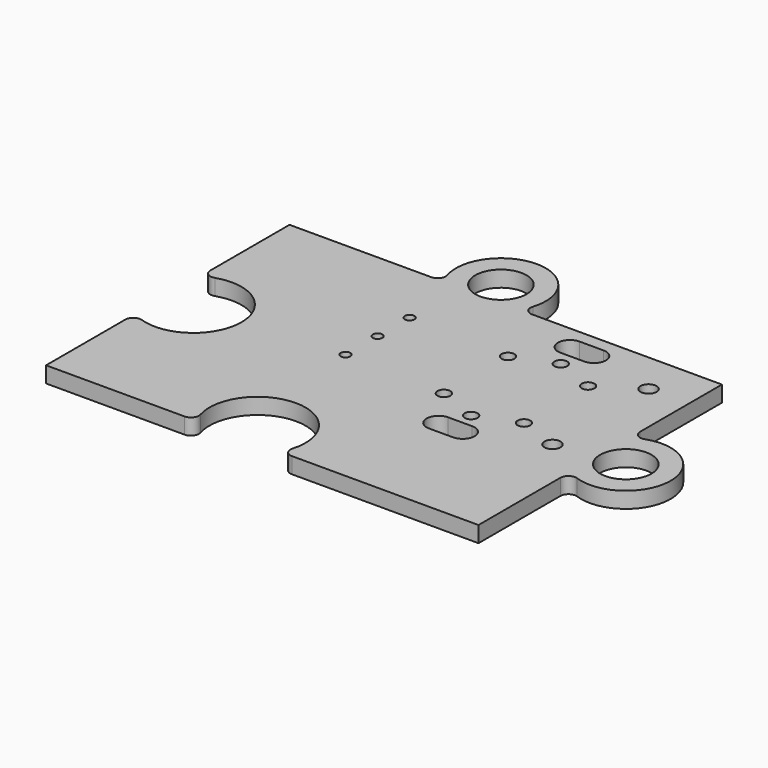
from build123d import *

# Parameters (mm, degrees)
CYLINDER012_R     = 0.5
CYLINDER012_DEPTH = 10
CYLINDER011_R     = 0.5
CYLINDER011_DEPTH = 10
CYLINDER010_R     = 0.3
CYLINDER010_DEPTH = 10
CYLINDER009_R     = 0.3
CYLINDER009_DEPTH = 10
CYLINDER008_R     = 0.3
CYLINDER008_DEPTH = 10
PAD004_DEPTH      = 5
PAD003_DEPTH      = 5
CYLINDER007_R     = 0.4
CYLINDER007_DEPTH = 10
CYLINDER006_R     = 0.4
CYLINDER006_DEPTH = 10
CYLINDER005_R     = 0.4
CYLINDER005_DEPTH = 10
CYLINDER004_R     = 0.4
CYLINDER004_DEPTH = 10
CYLINDER003_R     = 0.4
CYLINDER003_DEPTH = 10
CYLINDER002_R     = 0.4
CYLINDER002_DEPTH = 10
SKETCH_R          = 1.6
PAD_DEPTH         = 1
FILLET_R          = 0.5
FILLET001_R       = 0.5
FILLET002_R       = 0.5
FILLET003_R       = 0.5
FILLET004_R       = 0.5
FILLET005_R       = 0.5


with BuildPart() as cilindro012:
    # Cylinder012 → Cylinder012 (new body)
    with BuildSketch(Plane(origin=(11, -0.6, -2), x_dir=(1, 0, 0), z_dir=(0, 0, 1))):
        Circle(CYLINDER012_R)
    extrude(amount=CYLINDER012_DEPTH)


with BuildPart() as cilindro011:
    # Cylinder011 → Cylinder011 (new body)
    with BuildSketch(Plane(origin=(11, 6.9, -2), x_dir=(1, 0, 0), z_dir=(0, 0, 1))):
        Circle(CYLINDER011_R)
    extrude(amount=CYLINDER011_DEPTH)


with BuildPart() as cilindro010:
    # Cylinder010 → Cylinder010 (new body)
    with BuildSketch(Plane(origin=(-2.8, 0.5, -2), x_dir=(1, 0, 0), z_dir=(0, 0, 1))):
        Circle(CYLINDER010_R)
    extrude(amount=CYLINDER010_DEPTH)


with BuildPart() as cilindro009:
    # Cylinder009 → Cylinder009 (new body)
    with BuildSketch(Plane(origin=(-2.8, 3, -2), x_dir=(1, 0, 0), z_dir=(0, 0, 1))):
        Circle(CYLINDER009_R)
    extrude(amount=CYLINDER009_DEPTH)


with BuildPart() as cilindro008:
    # Cylinder008 → Cylinder008 (new body)
    with BuildSketch(Plane(origin=(-2.8, 5.5, -2), x_dir=(1, 0, 0), z_dir=(0, 0, 1))):
        Circle(CYLINDER008_R)
    extrude(amount=CYLINDER008_DEPTH)


with BuildPart() as pad004:
    # Sketch008 → Pad004 (new body)
    with BuildSketch(Plane(origin=(0, -9, 0), x_dir=(1, 0, 0), z_dir=(0, 0, 1))):
        with BuildLine():
            ThreePointArc((5.24484, 7.456211), (4.49484, 6.706211), (5.24484, 5.956211))
            Line((5.24484, 5.956211), (6.74484, 5.956211))
            ThreePointArc((6.74484, 5.956211), (7.49484, 6.706211), (6.74484, 7.456211))
            Line((5.24484, 7.456211), (6.74484, 7.456211))
        make_face()
    extrude(amount=PAD004_DEPTH)


with BuildPart() as pad003:
    # Sketch007 → Pad003 (new body)
    with BuildSketch(Plane(origin=(0, 1.25, 0), x_dir=(1, 0, 0), z_dir=(0, 0, 1))):
        with BuildLine():
            ThreePointArc((5.24484, 7.456211), (4.49484, 6.706211), (5.24484, 5.956211))
            Line((5.24484, 5.956211), (6.74484, 5.956211))
            ThreePointArc((6.74484, 5.956211), (7.49484, 6.706211), (6.74484, 7.456211))
            Line((5.24484, 7.456211), (6.74484, 7.456211))
        make_face()
    extrude(amount=PAD003_DEPTH)


with BuildPart() as cilindro007:
    # Cylinder007 → Cylinder007 (new body)
    with BuildSketch(Plane(origin=(6, 6.3, -2), x_dir=(1, 0, 0), z_dir=(0, 0, 1))):
        Circle(CYLINDER007_R)
    extrude(amount=CYLINDER007_DEPTH)


with BuildPart() as cilindro006:
    # Cylinder006 → Cylinder006 (new body)
    with BuildSketch(Plane(origin=(6, -0.7, -2), x_dir=(1, 0, 0), z_dir=(0, 0, 1))):
        Circle(CYLINDER006_R)
    extrude(amount=CYLINDER006_DEPTH)


with BuildPart() as cilindro005:
    # Cylinder005 → Cylinder005 (new body)
    with BuildSketch(Plane(origin=(8.5, 5.3, -2), x_dir=(1, 0, 0), z_dir=(0, 0, 1))):
        Circle(CYLINDER005_R)
    extrude(amount=CYLINDER005_DEPTH)


with BuildPart() as cilindro004:
    # Cylinder004 → Cylinder004 (new body)
    with BuildSketch(Plane(origin=(3.5, 5.3, -2), x_dir=(1, 0, 0), z_dir=(0, 0, 1))):
        Circle(CYLINDER004_R)
    extrude(amount=CYLINDER004_DEPTH)


with BuildPart() as cilindro003:
    # Cylinder003 → Cylinder003 (new body)
    with BuildSketch(Plane(origin=(8.5, 0.3, -2), x_dir=(1, 0, 0), z_dir=(0, 0, 1))):
        Circle(CYLINDER003_R)
    extrude(amount=CYLINDER003_DEPTH)


with BuildPart() as cilindro002:
    # Cylinder002 → Cylinder002 (new body)
    with BuildSketch(Plane(origin=(3.5, 0.3, -2), x_dir=(1, 0, 0), z_dir=(0, 0, 1))):
        Circle(CYLINDER002_R)
    extrude(amount=CYLINDER002_DEPTH)


with BuildPart() as baseled:
    # Sketch → Pad (new body)
    with BuildSketch(Plane.XY):
        with BuildLine():
            Line((-13.5, 9.5), (-3.864318, 9.5))
            ThreePointArc((0.864318, 9.5), (-1.5, 13.8), (-3.864318, 9.5))
            Line((0.864318, 9.5), (13.5, 9.5))
            Line((13.5, 9.5), (13.5, 2.297825))
            ThreePointArc((13.5, -2.297825), (17.9, 0), (13.5, 2.297825))
            Line((13.5, -2.297825), (13.5, -9.5))
            Line((13.5, -9.5), (1.098076, -9.5))
            ThreePointArc((1.098076, -9.5), (-1.5, -5), (-4.098076, -9.5))
            Line((-4.098076, -9.5), (-13.5, -9.5))
            Line((-13.5, -9.5), (-13.5, -2.537716))
            ThreePointArc((-13.5, -2.537716), (-8.9, 0), (-13.5, 2.537716))
            Line((-13.5, 2.537716), (-13.5, 9.5))
        make_face()
        with Locations((-1.5, 11)):
            Circle(SKETCH_R, mode=Mode.SUBTRACT)
        with Locations((15.1, 0)):
            Circle(SKETCH_R, mode=Mode.SUBTRACT)
    extrude(amount=PAD_DEPTH)

    # Fillet
    fillet_edges = [baseled.edges().sort_by_distance(p)[0] for p in [
        (-3.864318, 9.5, 0.5),
    ]]
    fillet(fillet_edges, radius=FILLET_R)

    # Fillet001
    fillet001_edges = [baseled.edges().sort_by_distance(p)[0] for p in [
        (0.864318, 9.5, 0.5),
    ]]
    fillet(fillet001_edges, radius=FILLET001_R)

    # Fillet002
    fillet002_edges = [baseled.edges().sort_by_distance(p)[0] for p in [
        (13.5, 2.297825, 0.5),
    ]]
    fillet(fillet002_edges, radius=FILLET002_R)

    # Fillet003
    fillet003_edges = [baseled.edges().sort_by_distance(p)[0] for p in [
        (13.5, -2.297825, 0.5),
    ]]
    fillet(fillet003_edges, radius=FILLET003_R)

    # Fillet004
    fillet004_edges = [baseled.edges().sort_by_distance(p)[0] for p in [
        (-4.098076, -9.5, 0.5),
    ]]
    fillet(fillet004_edges, radius=FILLET004_R)

    # Fillet005
    fillet005_edges = [baseled.edges().sort_by_distance(p)[0] for p in [
        (1.098076, -9.5, 0.5),
        (-13.5, -2.537716, 0.5),
        (-13.5, 2.537716, 0.5),
    ]]
    fillet(fillet005_edges, radius=FILLET005_R)

    # Cut003: cut Cilindro002
    add(cilindro002.part, mode=Mode.SUBTRACT)

    # Cut004: cut Cilindro003
    add(cilindro003.part, mode=Mode.SUBTRACT)

    # Cut005: cut Cilindro004
    add(cilindro004.part, mode=Mode.SUBTRACT)

    # Cut006: cut Cilindro005
    add(cilindro005.part, mode=Mode.SUBTRACT)

    # Cut007: cut Cilindro006
    add(cilindro006.part, mode=Mode.SUBTRACT)

    # Cut008: cut Cilindro007
    add(cilindro007.part, mode=Mode.SUBTRACT)

    # Cut009: cut Pad003
    add(pad003.part, mode=Mode.SUBTRACT)

    # Cut010: cut Pad004
    add(pad004.part, mode=Mode.SUBTRACT)

    # Cut011: cut Cilindro008
    add(cilindro008.part, mode=Mode.SUBTRACT)

    # Cut012: cut Cilindro009
    add(cilindro009.part, mode=Mode.SUBTRACT)

    # Cut013: cut Cilindro010
    add(cilindro010.part, mode=Mode.SUBTRACT)

    # Cut014: cut Cilindro011
    add(cilindro011.part, mode=Mode.SUBTRACT)

    # Cut015: cut Cilindro012
    add(cilindro012.part, mode=Mode.SUBTRACT)


solid = baseled.part
